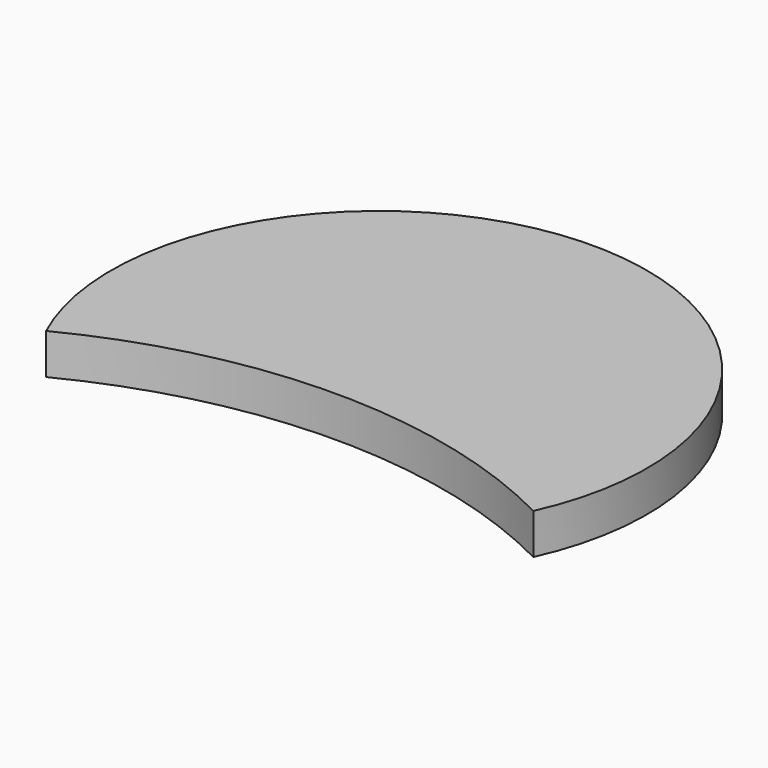
from build123d import *

# Parameters (mm, degrees)
F1_DEPTH = 5


with BuildPart() as f1:
    # F0 (on Top) → F1 (new body)
    with BuildSketch(Plane.XY):
        with BuildLine():
            ThreePointArc((-30, 0), (0, 7.212246), (30, 0))
            Line((30, 0), (30, 11))
            Line((30, 11), (-30, 11))
            Line((-30, 11), (-30, 0))
        make_face()
        with BuildLine():
            Line((30, 11), (30, 0))
            ThreePointArc((30, 0), (0, 46.747727), (-30, 0))
            Line((-30, 0), (-30, 11))
            Line((-30, 11), (30, 11))
        make_face()
    extrude(amount=F1_DEPTH)


solid = f1.part
